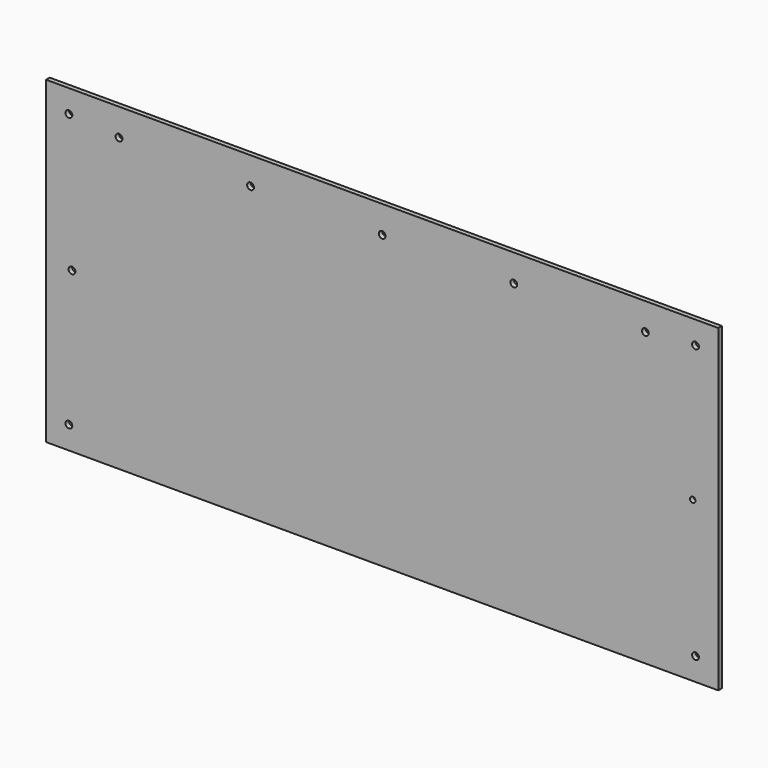
from build123d import *

# Parameters (mm, degrees)
SKETCH005_W     = 2
SKETCH005_H     = 140
PAD002_DEPTH    = 295
SKETCH019_R     = 1.5
SKETCH019_R_2   = 1.2144700083
POCKET008_DEPTH = 5
SKETCH073_R     = 1.5
POCKET049_DEPTH = 5


with BuildPart() as part:
    # Sketch005 → Pad002 (new body)
    with BuildSketch(Plane.YZ):
        with Locations((1, 70)):
            Rectangle(SKETCH005_W, SKETCH005_H)
    extrude(amount=PAD002_DEPTH)

    # Sketch019 (on Face1 of Pad002) → Pocket008 (cut)
    with BuildSketch(Plane(origin=(0, 0, 0), x_dir=(0, 0, -1), z_dir=(0, -1, 0))):
        with Locations((-130, 285)):
            Circle(SKETCH019_R)
        with Locations((-10, 285)):
            Circle(SKETCH019_R)
        with Locations((-70, 283.7855299917)):
            Circle(SKETCH019_R_2)
        with Locations((-10, 10)):
            Circle(SKETCH019_R)
        with Locations((-70, 11.3587896227)):
            Circle(SKETCH019_R)
        with Locations((-130, 10)):
            Circle(SKETCH019_R)
    extrude(amount=-POCKET008_DEPTH, mode=Mode.SUBTRACT)

    # Sketch073 (on Face1 of Binder023) → Pocket049 (cut)
    with BuildSketch(Plane(origin=(0, 4, 0), x_dir=(-1, 0, 0), z_dir=(0, 1, 0))):
        with Locations((-32, 128.029529)):
            Circle(SKETCH073_R)
        with Locations((-89.75, 128.029529)):
            Circle(SKETCH073_R)
        with Locations((-147.5, 128.029529)):
            Circle(SKETCH073_R)
        with Locations((-205.25, 128.029529)):
            Circle(SKETCH073_R)
        with Locations((-263, 128.029529)):
            Circle(SKETCH073_R)
    extrude(amount=-POCKET049_DEPTH, mode=Mode.SUBTRACT)


with BuildPart() as part_1:
    # Body001 placement: moved
    add(part.part.moved(Location((605, -2.1, -343.2))))


solid = part_1.part
